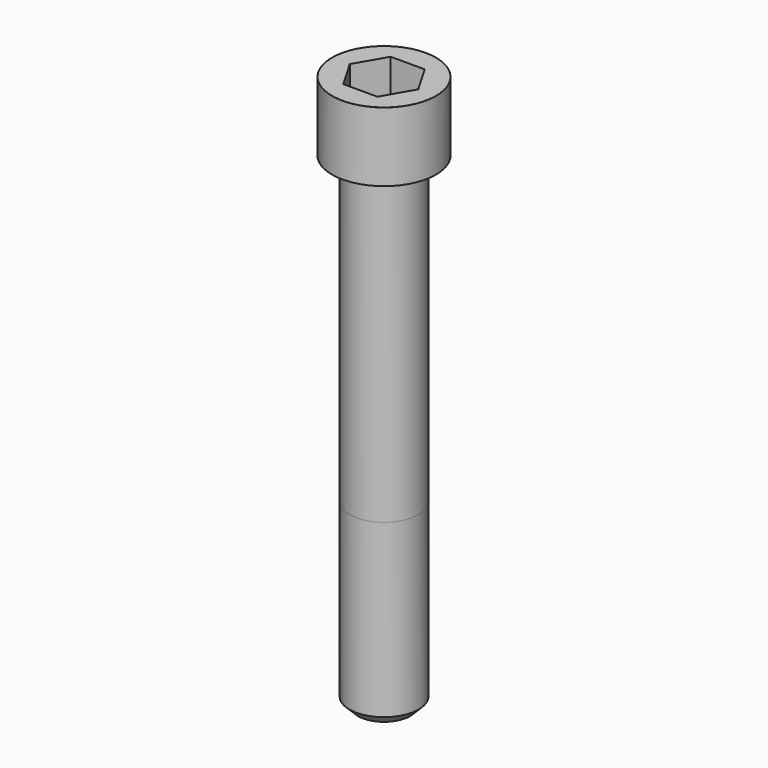
from build123d import *

# Parameters (mm, degrees)
POCKET_DEPTH = 17.1


with BuildPart() as part:
    # Sketch → Revolve (revolve)
    with BuildSketch(Plane.YZ):
        with BuildLine():
            Line((9.999, 0), (15, 0))
            Line((15, 0), (15, 19.97229))
            ThreePointArc((15, 19.97229), (14.991884, 19.991884), (14.97229, 20))
            Line((14.97229, 20), (0, 20))
            Line((0, -140), (0, 20))
            Line((7.5, -140), (0, -140))
            Line((10, -137.5), (7.5, -140))
            Line((10, -88), (10, -137.5))
            Line((9.999, 0), (10, -88))
        make_face()
    revolve(axis=Axis((0, 0, 0), (0, 0, 1)))

    # Sketch001 → Pocket (cut)
    with BuildSketch(Plane.XY.offset(20)):
        Polygon((9.87269, 0), (4.936345, 8.55), (-4.936345, 8.55), (-9.87269, 0), (-4.936345, -8.55), (4.936345, -8.55), align=None)
    extrude(amount=-POCKET_DEPTH, mode=Mode.SUBTRACT)


solid = part.part
